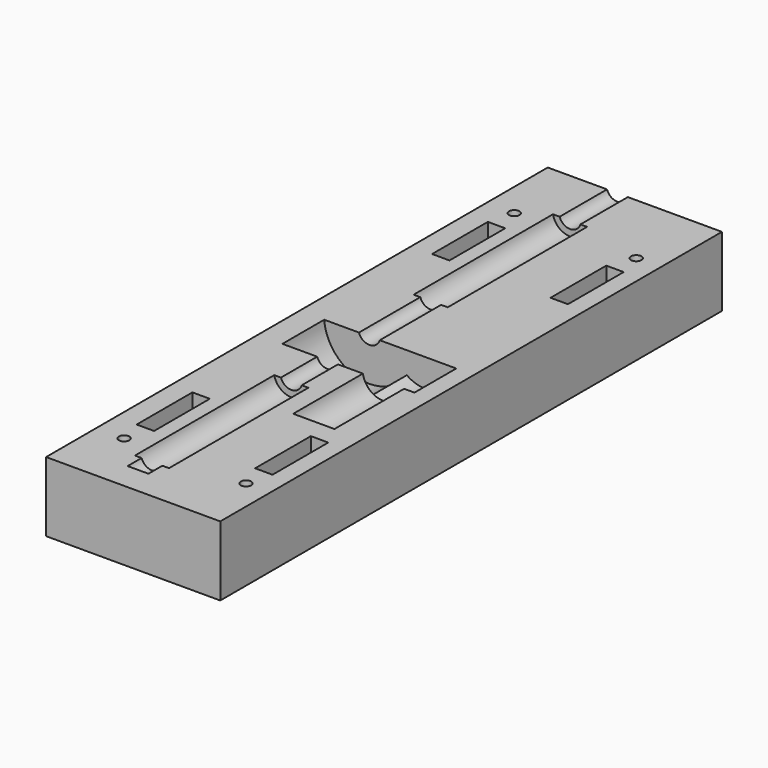
from build123d import *

# Parameters (mm, degrees)
SKETCH006_R     = 3.15
PAD002_DEPTH    = 190
SKETCH011_R     = 5
PAD007_DEPTH    = 50
SKETCH010_R     = 5
PAD006_DEPTH    = 50
SKETCH008_R     = 13
PAD004_DEPTH    = 15
SKETCH009_R     = 9
PAD005_DEPTH    = 15
SKETCH013_R     = 6
PAD008_DEPTH    = 26
BOX001_W        = 50
BOX001_H        = 180
BOX001_DEPTH    = 20
SKETCH015_R     = 1.5
POCKET001_DEPTH = 395.766885
SKETCH016_R     = 1.5
POCKET002_DEPTH = 395.766885
SKETCH017_R     = 3
POCKET003_DEPTH = 5
SKETCH018_R     = 3
POCKET004_DEPTH = 5
SKETCH022_W     = 5
SKETCH022_H     = 20
POCKET008_DEPTH = 395.766885
SKETCH023_W     = 5
SKETCH023_H     = 20
POCKET009_DEPTH = 395.766885


with BuildPart() as pad002:
    # Sketch006 → Pad002 (new body)
    with BuildSketch(Plane.XZ.offset(80)):
        Circle(SKETCH006_R)
    extrude(amount=-PAD002_DEPTH)


with BuildPart() as pad007:
    # Sketch011 → Pad007 (new body)
    with BuildSketch(Plane.XZ.offset(-75)):
        Circle(SKETCH011_R)
    extrude(amount=PAD007_DEPTH)


with BuildPart() as scassi_perno:
    # Sketch010 → Pad006 (new body)
    with BuildSketch(Plane.XZ.offset(25)):
        Circle(SKETCH010_R)
    extrude(amount=PAD006_DEPTH)

    # Fusion002: union Pad007
    add(pad007.part)


with BuildPart() as scasso_ruota_dentata:
    # Sketch008 → Pad004 (new body)
    with BuildSketch(Plane.XZ.offset(-3)):
        Circle(SKETCH008_R)
    extrude(amount=PAD004_DEPTH)


with BuildPart() as obj1:
    # Sketch009 → Pad005 (new body)
    with BuildSketch(Plane.XZ.offset(-3)):
        with Locations((15.997087, 9e-06)):
            Circle(SKETCH009_R)
    extrude(amount=PAD005_DEPTH)

    # Fusion001: union scasso_ruota_dentata
    add(scasso_ruota_dentata.part)


with BuildPart() as fusion:
    # Sketch013 → Pad008 (new body)
    with BuildSketch(Plane.XZ.offset(11)):
        with Locations((16.059561, 9e-06)):
            Circle(SKETCH013_R)
    extrude(amount=PAD008_DEPTH)

    # Fusion005: union scassi_perno, obj1
    add(scassi_perno.part)
    add(obj1.part)

    # Fusion: union Pad002
    add(pad002.part)


with BuildPart() as mirrored007:
    # Box001 → Box001 (new body)
    with BuildSketch(Plane(origin=(-20, -88, -21), x_dir=(1, 0, 0), z_dir=(0, 0, 1))):
        with Locations((25, 90)):
            Rectangle(BOX001_W, BOX001_H)
    extrude(amount=BOX001_DEPTH)

    # Cut001: cut Fusion
    add(fusion.part, mode=Mode.SUBTRACT)

    # Sketch015 → Pocket001 (cut, through all)
    with BuildSketch(Plane(origin=(0, 0, -21), x_dir=(1, 0, 0), z_dir=(0, 0, -1))):
        with Locations((23, 70)):
            Circle(SKETCH015_R)
    pocket001 = extrude(amount=-POCKET001_DEPTH, mode=Mode.SUBTRACT)

    # Mirrored: Pocket001 across Sketch015 H_Axis
    add(pocket001.mirror(Plane(origin=(0, 0, -21), x_dir=(0, 0, -1), z_dir=(0, -1, 0))), mode=Mode.SUBTRACT)

    # Sketch016 → Pocket002 (cut, through all)
    with BuildSketch(Plane(origin=(0, 0, -21), x_dir=(1, 0, 0), z_dir=(0, 0, -1))):
        with Locations((-12, 70)):
            Circle(SKETCH016_R)
    pocket002 = extrude(amount=-POCKET002_DEPTH, mode=Mode.SUBTRACT)

    # Mirrored001: Pocket002 across Sketch016 H_Axis
    add(pocket002.mirror(Plane(origin=(0, 0, -21), x_dir=(0, 0, -1), z_dir=(0, -1, 0))), mode=Mode.SUBTRACT)

    # Sketch017 → Pocket003 (cut)
    with BuildSketch(Plane(origin=(0, 0, -21), x_dir=(1, 0, 0), z_dir=(0, 0, -1))):
        with Locations((23, 70)):
            Circle(SKETCH017_R)
    pocket003 = extrude(amount=-POCKET003_DEPTH, mode=Mode.SUBTRACT)

    # Mirrored002: Pocket003 across Sketch017 H_Axis
    add(pocket003.mirror(Plane(origin=(0, 0, -21), x_dir=(0, 0, -1), z_dir=(0, -1, 0))), mode=Mode.SUBTRACT)

    # Sketch018 → Pocket004 (cut)
    with BuildSketch(Plane(origin=(0, 0, -21), x_dir=(1, 0, 0), z_dir=(0, 0, -1))):
        with Locations((-12, 70)):
            Circle(SKETCH018_R)
    pocket004 = extrude(amount=-POCKET004_DEPTH, mode=Mode.SUBTRACT)

    # Mirrored003: Pocket004 across Sketch018 H_Axis
    add(pocket004.mirror(Plane(origin=(0, 0, -21), x_dir=(0, 0, -1), z_dir=(0, -1, 0))), mode=Mode.SUBTRACT)

    # Sketch022 → Pocket008 (cut, through all)
    with BuildSketch(Plane(origin=(0, 0, -21), x_dir=(1, 0, 0), z_dir=(0, 0, -1))):
        with Locations((22.5, 53)):
            Rectangle(SKETCH022_W, SKETCH022_H)
    pocket008 = extrude(amount=-POCKET008_DEPTH, mode=Mode.SUBTRACT)

    # Mirrored006: Pocket008 across Sketch022 H_Axis
    add(pocket008.mirror(Plane(origin=(0, 0, -21), x_dir=(0, 0, -1), z_dir=(0, -1, 0))), mode=Mode.SUBTRACT)

    # Sketch023 → Pocket009 (cut, through all)
    with BuildSketch(Plane(origin=(0, 0, -21), x_dir=(1, 0, 0), z_dir=(0, 0, -1))):
        with Locations((-11.5, 53)):
            Rectangle(SKETCH023_W, SKETCH023_H)
    pocket009 = extrude(amount=-POCKET009_DEPTH, mode=Mode.SUBTRACT)

    # Mirrored007: Pocket009 across Sketch023 H_Axis
    add(pocket009.mirror(Plane(origin=(0, 0, -21), x_dir=(0, 0, -1), z_dir=(0, -1, 0))), mode=Mode.SUBTRACT)


solid = mirrored007.part
